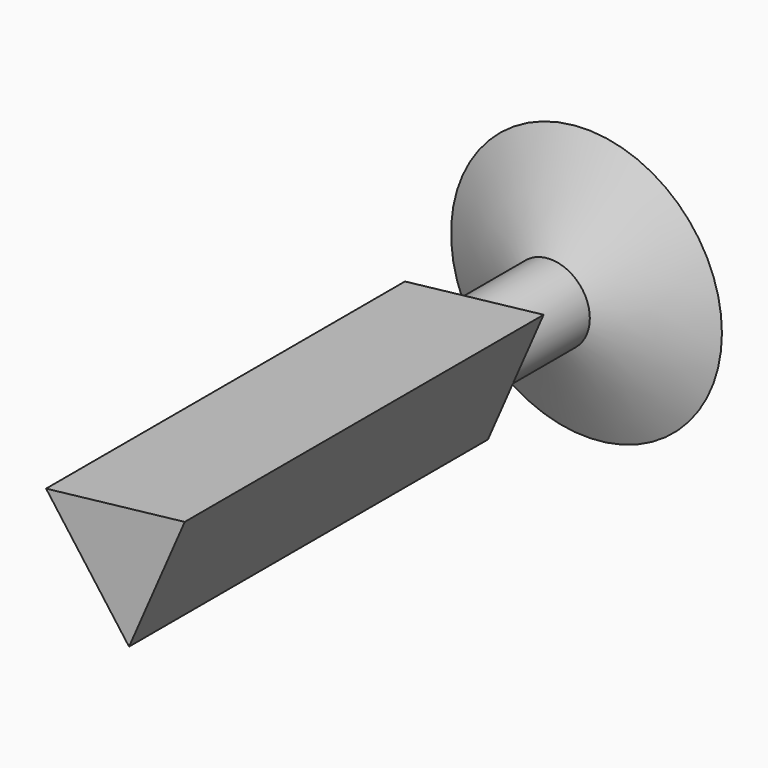
from build123d import *

# Parameters (mm, degrees)
F1_DEPTH  = 150
F2_R      = 13.1152364831
F3_DEPTH  = 30
F3_FACE_R = 13.1152364831
F4_DEPTH  = 15
F4_TAPER  = -65


with BuildPart() as f1:
    # F0 (on Front) → F1 (new body)
    with BuildSketch(Plane.XZ):
        Polygon((-24.6986329274, 10.7461681883), (3.0428618193, -26.762727648), (21.6557711081, 16.0165594597), align=None)
    extrude(amount=F1_DEPTH)

    # F2 (on Front) → F3 (join)
    with BuildSketch(Plane.XZ):
        Circle(F2_R)
    extrude(amount=-F3_DEPTH)

    # F3_face (on face) → F4 (join)
    with BuildSketch(Plane(origin=(0, 30, 0), x_dir=(1, 0, 0), z_dir=(0, 1, 0))):
        Circle(F3_FACE_R)
    extrude(amount=F4_DEPTH, taper=F4_TAPER)


solid = f1.part
